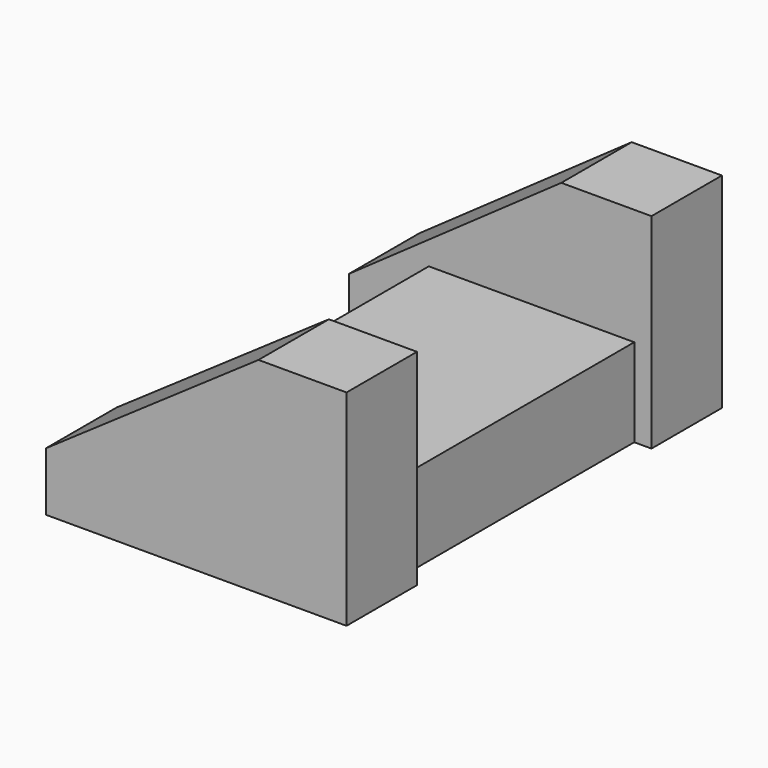
from build123d import *

# Parameters (mm, degrees)
F1_DEPTH = 19.05
F2_W     = 63.5
F2_H     = 19.050002
F3_DEPTH = 44.45
F5_DEPTH = 19.05


with BuildPart() as f1:
    # F0 (on Front) → F1 (new body)
    with BuildSketch(Plane.XZ):
        Polygon((-61.209836, -31.755634), (-61.209836, -44.45), (3.793104, -44.45), (3.793104, 0), (-15.256896, 0), align=None)
    extrude(amount=F1_DEPTH)

    # F2 (on Right) → F3 (join)
    with BuildSketch(Plane.YZ):
        with Locations((31.75, -34.74861)):
            Rectangle(F2_W, F2_H)
    extrude(amount=-F3_DEPTH)

    # F4 (on face) → F5 (join)
    with BuildSketch(Plane(origin=(0, 63.5, 0), x_dir=(-1, 0, 0), z_dir=(0, 1, 0))):
        Polygon((-3.725521, 0), (-3.725521, -44.273611), (61.737206, -44.351444), (61.737206, -32.287851), (15.789114, 0), align=None)
    extrude(amount=F5_DEPTH)


solid = f1.part
